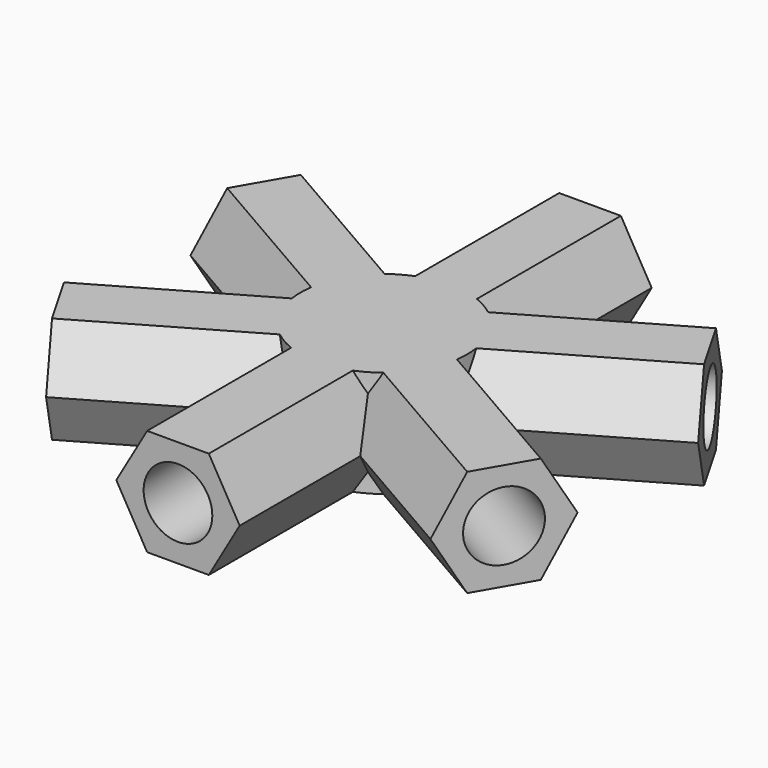
from build123d import *

# Parameters (mm, degrees)
F0_R          = 3.6
F1_DEPTH      = 27
F2_COUNT      = 6
F3_R          = 8.75
F4_DEPTH      = 5.6
F4_DEPTH_BACK = 5.6


with BuildPart() as f1:
    # F0 (on Front) → F1 (new body)
    with BuildSketch(Plane.XZ):
        Polygon((-3.233162, -5.6), (3.233162, -5.6), (6.466323, 0), (3.233162, 5.6), (-3.233162, 5.6), (-6.466323, 0), align=None)
        Circle(F0_R, mode=Mode.SUBTRACT)
    extrude(amount=F1_DEPTH)

    # F2: F1 ×6 about axis
    f2_axis = Axis((0, 0, 14.441719), (0, 0, 1))


with BuildPart() as f1_1:
    add(f1.part)
    for i in range(1, F2_COUNT):
        add(f1.part.rotate(f2_axis, i * 360 / F2_COUNT))

    # F3 (on Top) → F4 (join, two sides)
    with BuildSketch(Plane.XY) as f4_sk:
        Circle(F3_R)
    extrude(amount=F4_DEPTH)
    extrude(f4_sk.sketch, amount=-F4_DEPTH_BACK)


solid = f1_1.part
